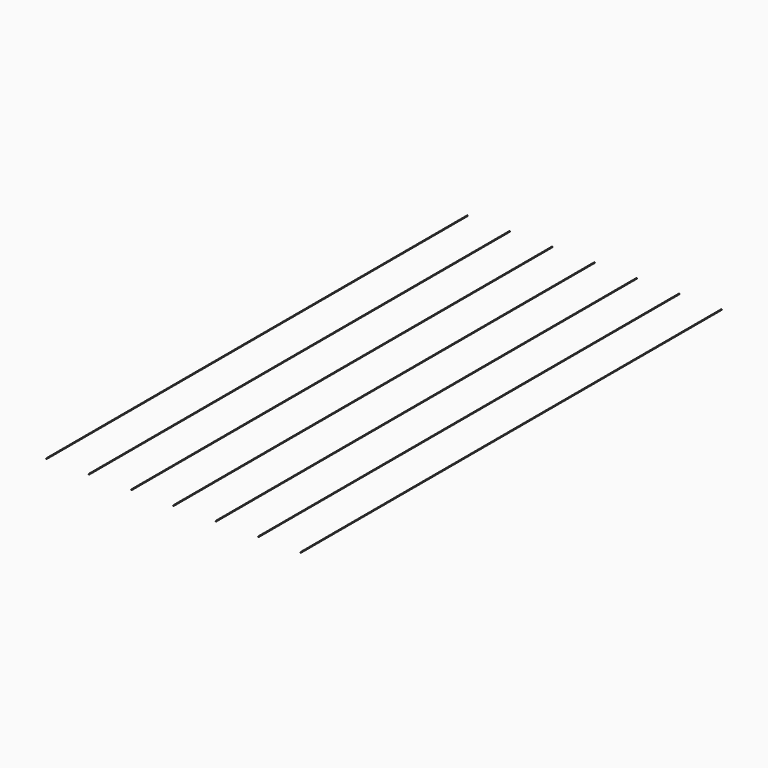
from build123d import *

# Parameters (mm, degrees)
F1_DEPTH = 1970
F2_DEPTH = 1970


with BuildPart() as f1:
    # F0 (on Front) → F1 (new body)
    with BuildSketch(Plane.XZ):
        Polygon((1.25, 2.5), (0, 0), (2.5, 0), align=None)
    extrude(amount=-F1_DEPTH)

    # F0 (on Front) → F2 (join)
    with BuildSketch(Plane.XZ):
        Polygon((1.25, 2.5), (0, 0), (2.5, 0), align=None)
        Polygon((158.5, 0), (161, 0), (159.75, 2.5), align=None)
        Polygon((317, 0), (319.5, 0), (318.25, 2.5), align=None)
        Polygon((475.5, 0), (478, 0), (476.75, 2.5), align=None)
        Polygon((634, 0), (636.5, 0), (635.25, 2.5), align=None)
        Polygon((792.5, 0), (795, 0), (793.75, 2.5), align=None)
        Polygon((951, 0), (953.5, 0), (952.25, 2.5), align=None)
    extrude(amount=-F2_DEPTH)


solid = f1.part
